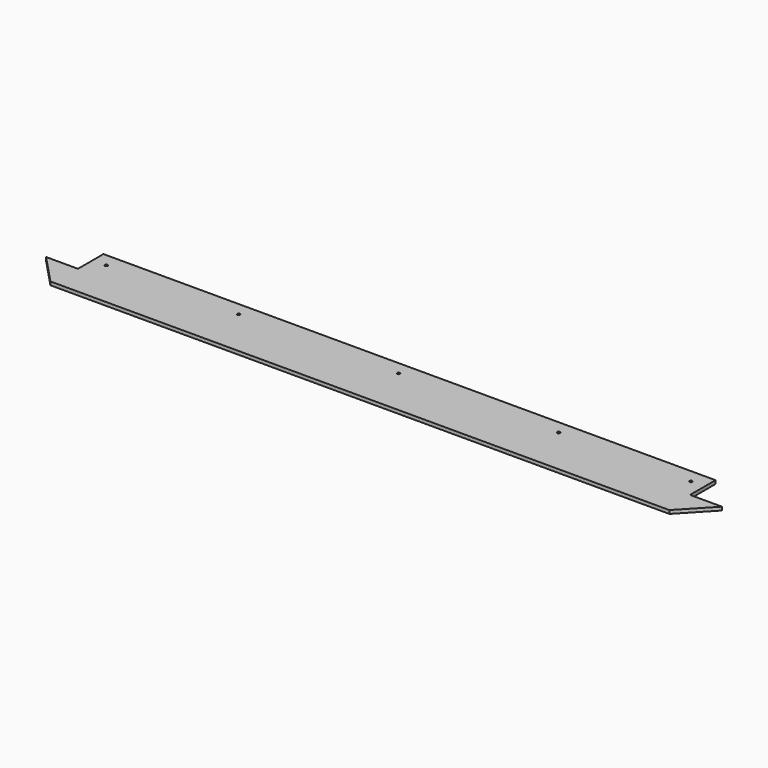
from build123d import *

# Parameters (mm, degrees)
F0_R     = 1.25
F1_DEPTH = 3


with BuildPart() as f1:
    # F0 (on Top) → F1 (new body)
    with BuildSketch(Plane.XY):
        Polygon((-87.764001, -26.485492), (455.935999, -26.485492), (480.935999, 0), (452.935999, 0), (452.935999, 28), (-84.764001, 28), (-84.764001, 0), (-112.764001, 0), align=None)
        with Locations((-72.764001, 16)):
            Circle(F0_R, mode=Mode.SUBTRACT)
        with Locations((43.565999, 16)):
            Circle(F0_R, mode=Mode.SUBTRACT)
        with Locations((184.085999, 16)):
            Circle(F0_R, mode=Mode.SUBTRACT)
        with Locations((324.605999, 16)):
            Circle(F0_R, mode=Mode.SUBTRACT)
        with Locations((440.935999, 16)):
            Circle(F0_R, mode=Mode.SUBTRACT)
    extrude(amount=F1_DEPTH)


solid = f1.part
